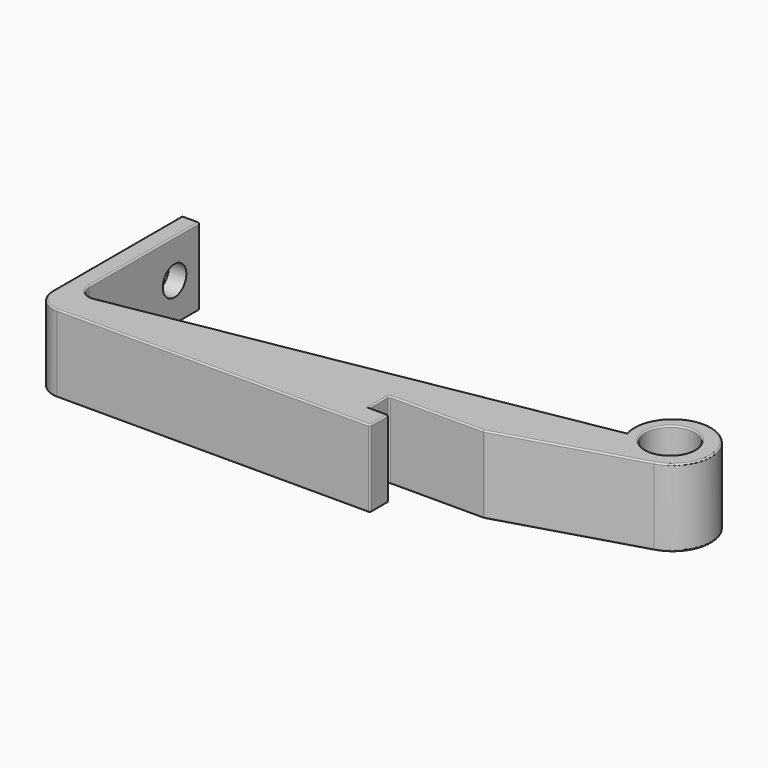
from build123d import *

# Parameters (mm, degrees)
F0_R     = 3.55
F1_DEPTH = 11.05
F2_R     = 3.25
F3_R     = 2
F4_R     = 0.2
F5_R     = 2.1
F6_DEPTH = 12.5


with BuildPart() as f1:
    # F0 (on Top) → F1 (new body)
    with BuildSketch(Plane.XY):
        with BuildLine():
            Line((-29.5610473286, 26.45), (-32.0610473286, 26.45))
            Line((-32.0610473286, 26.45), (-32.0610473286, 0))
            Line((-32.0610473286, 0), (-29.5610473286, 0))
            Line((-29.5610473286, 0), (15.9389526714, 0))
            Line((15.9389526714, 0), (15.9389526714, 3.3))
            Line((15.9389526714, 3.3), (13.1389526714, 3.3))
            Line((13.1389526714, 3.3), (13.1389526714, 6.9))
            Line((13.1389526714, 6.9), (26.6389526714, 6.9))
            Line((26.6389526714, 6.9), (46.3178146432, 12.7740040214))
            ThreePointArc((46.3178146432, 12.7740040214), (47.3596829779, 22.8828041492), (39.4739761576, 16.4727372545))
            Line((39.4739761576, 16.4727372545), (-29.5610473286, 4.3))
            Line((-29.5610473286, 4.3), (-29.5610473286, 26.45))
        make_face()
        with Locations((44.3852424027, 18.0471445908)):
            Circle(F0_R, mode=Mode.SUBTRACT)
    extrude(amount=F1_DEPTH)

    # F2
    f2_edges = [f1.edges().sort_by_distance(p)[0] for p in [
        (-32.061047, 0, 5.525),
    ]]
    fillet(f2_edges, radius=F2_R)

    # F3
    f3_edges = [f1.edges().sort_by_distance(p)[0] for p in [
        (-29.561047, 4.3, 5.525),
    ]]
    fillet(f3_edges, radius=F3_R)

    # F4
    f4_edges = [f1.edges().sort_by_distance(p)[0] for p in [
        (6.130113, 10.593314, 0),
        (47.359683, 22.882804, 0),
        (36.478384, 9.837002, 0),
        (19.888953, 6.9, 0),
        (13.138953, 5.1, 0),
        (14.538953, 3.3, 0),
        (-6.436047, 0, 0),
        (15.938953, 1.65, 0),
        (-31.109144, 0.951903, 0),
        (-28.846623, 5.151418, 0),
        (-29.561047, 16.566754, 0),
        (-32.061047, 14.85, 0),
        (-32.061047, 26.45, 5.525),
        (-29.561047, 26.45, 5.525),
        (-30.811047, 26.45, 11.05),
        (-32.061047, 14.85, 11.05),
        (-29.561047, 16.566754, 11.05),
        (-31.109144, 0.951903, 11.05),
        (-28.846623, 5.151418, 11.05),
        (-6.436047, 0, 11.05),
        (6.130113, 10.593314, 11.05),
        (15.938953, 1.65, 11.05),
        (19.888953, 6.9, 11.05),
        (36.478384, 9.837002, 11.05),
        (47.359683, 22.882804, 11.05),
        (14.538953, 3.3, 11.05),
        (15.938953, 3.3, 5.525),
        (13.138953, 5.1, 11.05),
        (13.138953, 6.9, 5.525),
        (15.938953, 0, 5.525),
        (26.638953, 6.9, 5.525),
        (40.835242, 18.047145, 11.05),
        (40.835242, 18.047145, 0),
        (-30.811047, 26.45, 0),
    ]]
    fillet(f4_edges, radius=F4_R)

    # F5 (on face) → F6 (cut, symmetric)
    with BuildSketch(Plane(origin=(-32.0610473286, 0, 0), x_dir=(0, -1, 0), z_dir=(-1, 0, 0))):
        with Locations((-21.95, 5.525)):
            Circle(F5_R)
    extrude(amount=F6_DEPTH, both=True, mode=Mode.SUBTRACT)


solid = f1.part
